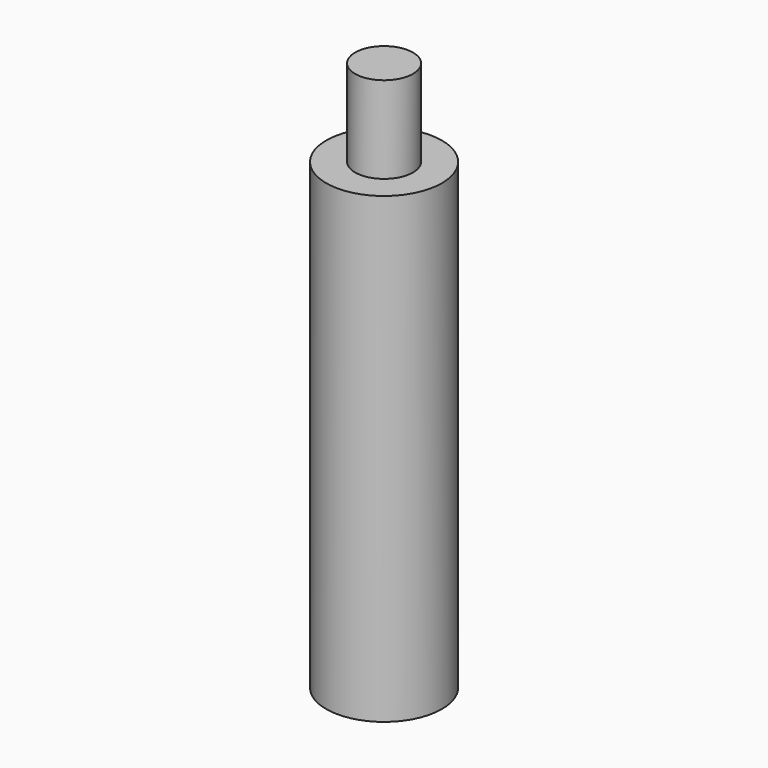
from build123d import *

# Parameters (mm, degrees)
F0_R     = 8
F1_DEPTH = 76
F2_R     = 8
F2_R_2   = 4
F3_DEPTH = 12


with BuildPart() as f1:
    # F0 (on Top) → F1 (new body)
    with BuildSketch(Plane.XY):
        Circle(F0_R)
    extrude(amount=F1_DEPTH)

    # F2 (on face) → F3 (cut)
    with BuildSketch(Plane.XY.offset(76)):
        Circle(F2_R)
        Circle(F2_R_2, mode=Mode.SUBTRACT)
    extrude(amount=-F3_DEPTH, mode=Mode.SUBTRACT)


solid = f1.part
